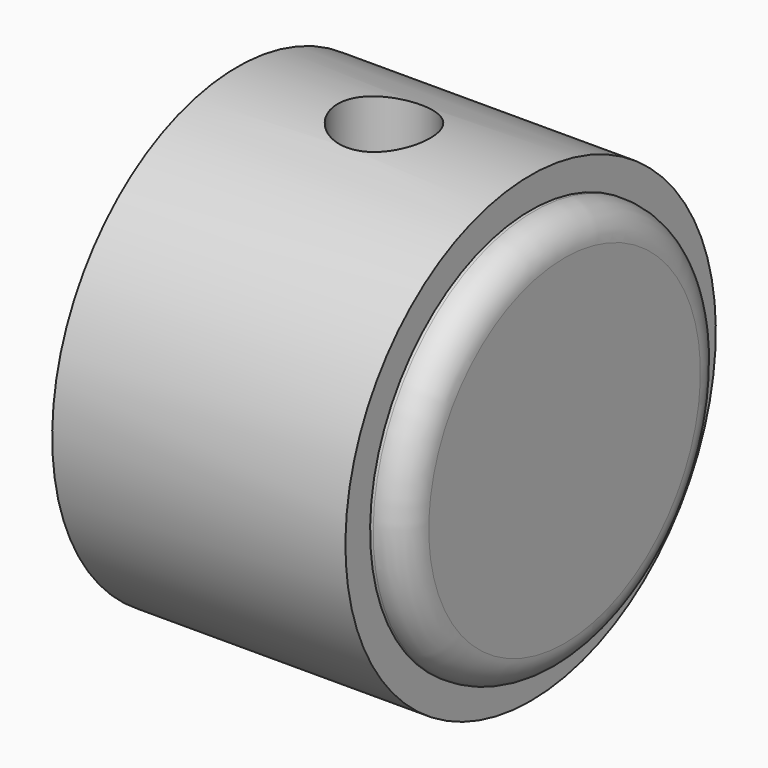
from build123d import *

# Parameters (mm, degrees)
SKETCH007_R          = 7.5
SKETCH007_R_2        = 3.05
PAD_DEPTH            = 9.5
SKETCH001_R          = 6.5
PAD001_DEPTH         = 1.1
FILLET_R             = 1
SKETCH008_R          = 1.5
POCKET_DEPTH         = 5
BODY_PLACEMENT_ANGLE = 90


with BuildPart() as part:
    # Sketch007 → Pad (new body)
    with BuildSketch(Plane.XY):
        Circle(SKETCH007_R)
        Circle(SKETCH007_R_2, mode=Mode.SUBTRACT)
    extrude(amount=PAD_DEPTH)

    # Sketch001 (on Face4 of Pad) → Pad001 (join)
    with BuildSketch(Plane.XY.offset(9.5)):
        Circle(SKETCH001_R)
    extrude(amount=PAD001_DEPTH)

    # Fillet
    fillet_edges = [part.edges().sort_by_distance(p)[0] for p in [
        (-6.5, 0, 10.6),
    ]]
    fillet(fillet_edges, radius=FILLET_R)

    # Sketch008 (on DatumPlane) → Pocket (cut)
    with BuildSketch(Plane(origin=(-8, 0, 4.75), x_dir=(0, 0, 1), z_dir=(-1, 0, 0))):
        Circle(SKETCH008_R)
    extrude(amount=-POCKET_DEPTH, mode=Mode.SUBTRACT)


with BuildPart() as part_1:
    # Body placement: moved
    add(part.part.moved(Location((41, 6, 28))).rotate(Axis((41, 6, 28), (0, 1, 0)), BODY_PLACEMENT_ANGLE))


solid = part_1.part
